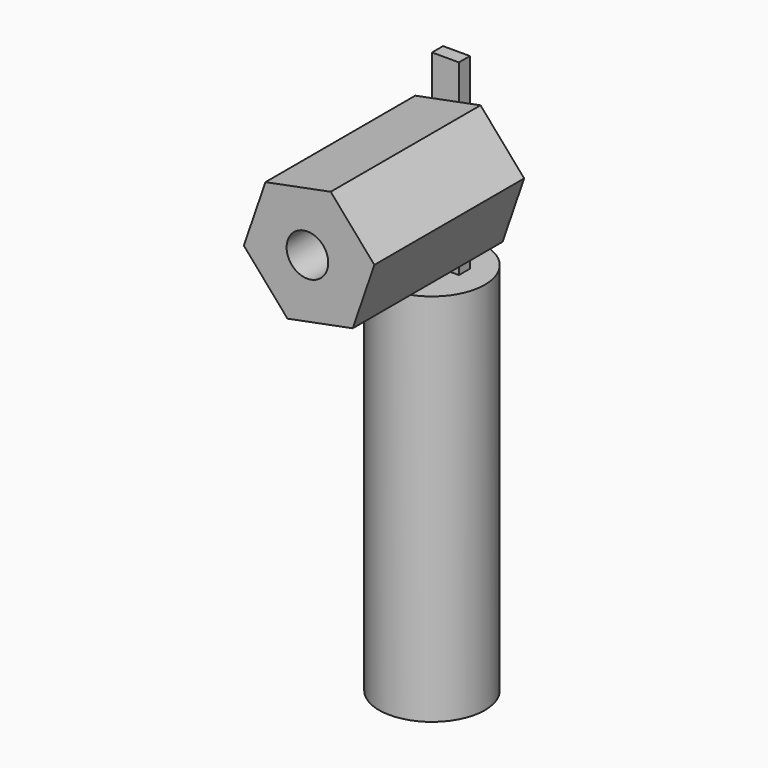
from build123d import *

# Parameters (mm, degrees)
F0_R     = 28.722262
F1_DEPTH = 203.2
F2_W     = 14.590031
F2_H     = 7.466263
F3_DEPTH = 101.6
F5_DEPTH = 101.6
F6_R     = 11.300877
F7_DEPTH = 76.2


with BuildPart() as f1:
    # F0 (on Top) → F1 (new body)
    with BuildSketch(Plane.XY):
        Circle(F0_R)
    extrude(amount=F1_DEPTH)

    # F2 (on face) → F3 (join)
    with BuildSketch(Plane.XY.offset(203.2)):
        with Locations((7.295015, 3.733131)):
            Rectangle(F2_W, F2_H)
    extrude(amount=F3_DEPTH)

    # F4 (on face) → F5 (join)
    with BuildSketch(Plane.XZ):
        Polygon((38.268968, 226.788725), (49.995155, 260.900924), (26.316217, 288.112199), (-9.088907, 281.211275), (-20.815094, 247.099076), (2.863844, 219.887801), align=None)
    extrude(amount=F5_DEPTH)

    # F6 (on face) → F7 (cut)
    with BuildSketch(Plane.XZ.offset(101.6)):
        with Locations((13.679512, 253.768682)):
            Circle(F6_R)
    extrude(amount=-F7_DEPTH, mode=Mode.SUBTRACT)


solid = f1.part
